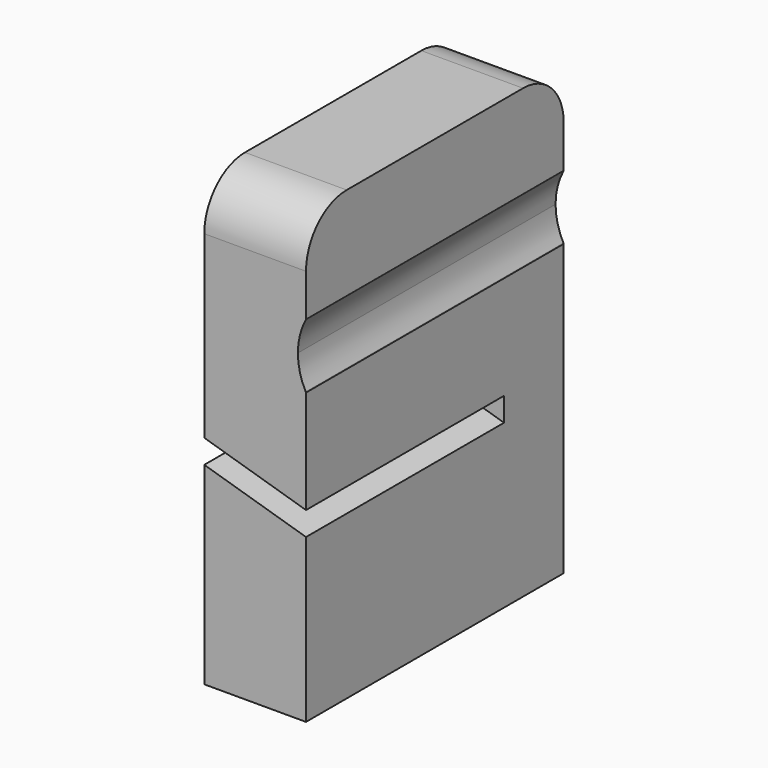
from build123d import *

# Parameters (mm, degrees)
F0_W      = 1
F0_H      = 2.5
F0_H_2    = 1.5
F1_DEPTH  = 10
F3_W      = 4
F3_H      = 2.7
F3_W_2    = 1
F4_DEPTH  = 7
F6_DEPTH  = 7.3
F7_DEPTH  = 1
F8_DEPTH  = 0.5
F9_DEPTH  = 0.5
F10_DEPTH = 0.5
F11_W     = 2
F11_H     = 14.978
F12_DEPTH = 25
F13_DEPTH = 1.2
F14_R     = 1.5


with BuildPart() as f1:
    # F0 (on Front) → F1 (new body)
    with BuildSketch(Plane.XZ):
        with BuildLine():
            Line((0, 2.5), (0, 0))
            Line((0, 0), (4, 0))
            Line((4, 0), (4, 1.55))
            Line((4, 1.55), (3.990259403, 1.5685071343))
            ThreePointArc((3.990259403, 1.5685071343), (3.8184891819, 2.0202463599), (3.7600958477, 2.5))
            ThreePointArc((3.7600958477, 2.5), (3.8184891819, 2.9797536401), (3.990259403, 3.4314928657))
            Line((3.990259403, 3.4314928657), (4, 3.45))
            Line((4, 3.45), (4, 4))
            Line((4, 4), (0, 4))
            Line((0, 4), (0, 2.5))
        make_face()
        with Locations((-0.5, 1.25)):
            Rectangle(F0_W, F0_H)
        Polygon((4, 0), (0, 0), (-1, 0), (4, -1.5), align=None)
        with Locations((-0.5, 3.25)):
            Rectangle(F0_W, F0_H_2)
    extrude(amount=F1_DEPTH)

    # F3 (on offset) → F4 (join)
    with BuildSketch(Plane.XY.offset(1)):
        with Locations((2, -1.35)):
            Rectangle(F3_W, F3_H)
        with Locations((-0.5, -1.35)):
            Rectangle(F3_W_2, F3_H)
    extrude(amount=-F4_DEPTH)

    # F5 (on face) → F6 (join, through all)
    with BuildSketch(Plane.XZ.offset(2.7)):
        Polygon((-1, -6), (4, -6), (4, -2.2), (-1, -0.7), align=None)
    extrude(amount=F6_DEPTH)

    # F7 (add): a face of the model
    f7_faces = [f1.faces().sort_by_distance(p)[0] for p in [
        (1.5, -5, -6),
    ]]
    extrude(f7_faces, amount=F7_DEPTH)

    # F8 (add): a face of the model
    f8_faces = [f1.faces().sort_by_distance(p)[0] for p in [
        (1.5, -5, 4),
    ]]
    extrude(f8_faces, amount=F8_DEPTH)

    # F9 (cut): a face of the model
    f9_faces = [f1.faces().sort_by_distance(p)[0] for p in [
        (1.4870709663, 0, -1.2701719647),
    ]]
    extrude(f9_faces, amount=-F9_DEPTH, mode=Mode.SUBTRACT)

    # F10 (add): a face of the model
    f10_faces = [f1.faces().sort_by_distance(p)[0] for p in [
        (1.5, -5.25, 4.5),
    ]]
    extrude(f10_faces, amount=F10_DEPTH)

    # F11 (on face) → F12 (cut)
    with BuildSketch(Plane.XZ.offset(10)):
        with Locations((0, -0.511)):
            Rectangle(F11_W, F11_H)
    extrude(amount=-F12_DEPTH, mode=Mode.SUBTRACT)

    # F13 (add): a face of the model
    f13_faces = [f1.faces().sort_by_distance(p)[0] for p in [
        (2.5, -5.25, 5),
    ]]
    extrude(f13_faces, amount=F13_DEPTH)

    # F14
    f14_edges = [f1.edges().sort_by_distance(p)[0] for p in [
        (2.5, -10, 6.2),
        (2.5, -0.5, 6.2),
    ]]
    fillet(f14_edges, radius=F14_R)


solid = f1.part
